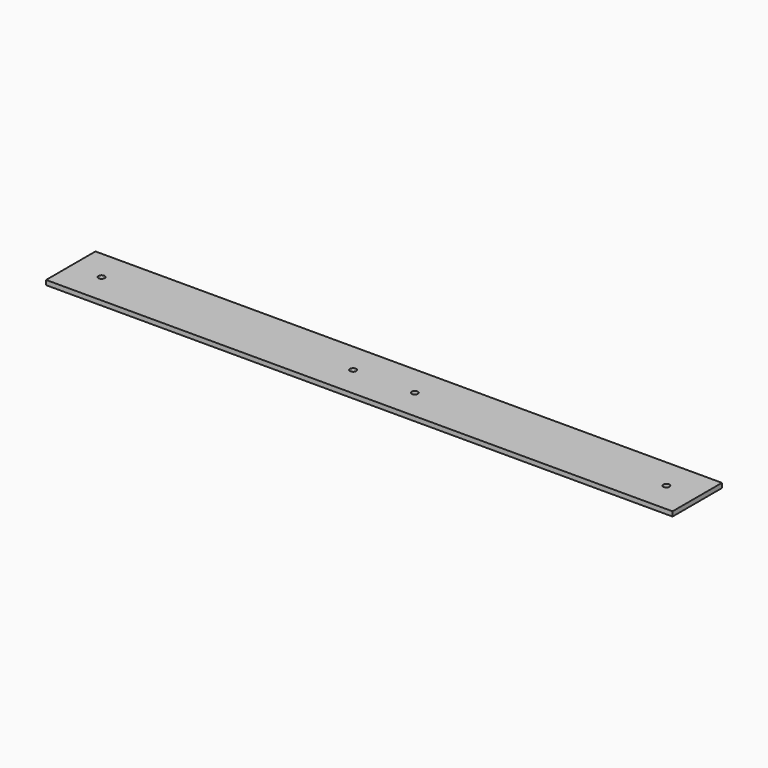
from build123d import *

# Parameters (mm, degrees)
F0_W     = 406
F0_H     = 40
F0_R     = 2
F1_DEPTH = 3


with BuildPart() as f1:
    # F0 (on Top) → F1 (new body)
    with BuildSketch(Plane.XY):
        Rectangle(F0_W, F0_H)
        with Locations((-183, 0)):
            Circle(F0_R, mode=Mode.SUBTRACT)
        with Locations((-20, 0)):
            Circle(F0_R, mode=Mode.SUBTRACT)
        with BuildLine():
            ThreePointArc((22, 0), (20, -2), (18, 0))
            ThreePointArc((18, 0), (20, 2), (22, 0))
        make_face(mode=Mode.SUBTRACT)
        with Locations((183, 0)):
            Circle(F0_R, mode=Mode.SUBTRACT)
    extrude(amount=F1_DEPTH)


solid = f1.part
